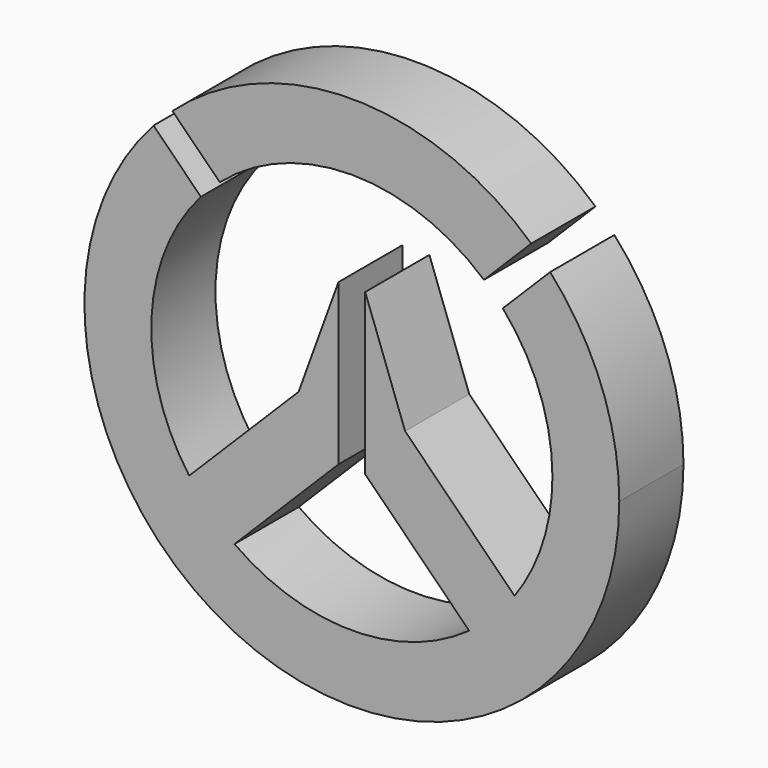
from build123d import *

# Parameters (mm, degrees)
F1_DEPTH = 3
F2_DEPTH = 3
F4_DEPTH = 3


with BuildPart() as f1:
    # F0 (on Front) → F1 (new body)
    with BuildSketch(Plane.XZ):
        with BuildLine():
            ThreePointArc((-7.4157768365, 6.7086700553), (-3.5945953621, -9.331606731), (10, 0))
            ThreePointArc((10, 0), (9.331606731, 3.5945953621), (7.4157768365, 6.7086700553))
            Line((7.4157768365, 6.7086700553), (5.6450560127, 4.9379492315))
            ThreePointArc((5.6450560127, 4.9379492315), (7.0209657489, 2.6374305588), (7.5, 0))
            ThreePointArc((7.5, 0), (-2.6374305588, -7.0209657489), (-5.6450560127, 4.9379492315))
            Line((-5.6450560127, 4.9379492315), (-7.4157768365, 6.7086700553))
        make_face()
    extrude(amount=F1_DEPTH)

    # F3 (on Front) → F4 (join, through all)
    with BuildSketch(Plane.XZ):
        with BuildLine():
            Line((-1.9912281105, -0.2941718356), (-6.0835066474, -4.3864503726))
            ThreePointArc((-6.0835066474, -4.3864503726), (-5.7118298294, -4.8605555238), (-5.3033008589, -5.3033008589))
            Line((-5.3033008589, -5.3033008589), (-0.5, -0.5))
            Line((-0.5, -0.5), (-0.5, 1.1970562748))
            Line((-0.5, 1.1970562748), (-1.9912281105, -0.2941718356))
        make_face()
        with BuildLine():
            Line((-0.5, -0.5), (-5.3033008589, -5.3033008589))
            ThreePointArc((-5.3033008589, -5.3033008589), (-4.8605555238, -5.7118298294), (-4.3864503726, -6.0835066474))
            Line((-4.3864503726, -6.0835066474), (-0.5, -2.1970562748))
            Line((-0.5, -2.1970562748), (-0.5, -0.5))
        make_face()
        Polygon((-0.5, 3.8029437252), (-1.9912281105, -0.2941718356), (-0.5, 1.1970562748), align=None)
        with BuildLine():
            Line((0.5, -0.5), (5.3033008589, -5.3033008589))
            ThreePointArc((5.3033008589, -5.3033008589), (5.7118298294, -4.8605555238), (6.0835066474, -4.3864503726))
            Line((6.0835066474, -4.3864503726), (1.9912281105, -0.2941718356))
            Line((1.9912281105, -0.2941718356), (0.5, 1.1970562748))
            Line((0.5, 1.1970562748), (0.5, -0.5))
        make_face()
        with BuildLine():
            Line((0.5, -2.1970562748), (4.3864503726, -6.0835066474))
            ThreePointArc((4.3864503726, -6.0835066474), (4.8605555238, -5.7118298294), (5.3033008589, -5.3033008589))
            Line((5.3033008589, -5.3033008589), (0.5, -0.5))
            Line((0.5, -0.5), (0.5, -2.1970562748))
        make_face()
        Polygon((0.5, 3.8029437252), (0.5, 1.1970562748), (1.9912281105, -0.2941718356), align=None)
    extrude(amount=F4_DEPTH)


with BuildPart() as f2:
    # F0 (on Front) → F2 (new body, through all)
    with BuildSketch(Plane.XZ):
        with BuildLine():
            Line((4.9379492315, 5.6450560127), (6.7086700553, 7.4157768365))
            ThreePointArc((6.7086700553, 7.4157768365), (0, 10), (-6.7086700553, 7.4157768365))
            Line((-6.7086700553, 7.4157768365), (-4.9379492315, 5.6450560127))
            ThreePointArc((-4.9379492315, 5.6450560127), (0, 7.5), (4.9379492315, 5.6450560127))
        make_face()
    extrude(amount=F2_DEPTH)


solid = Compound([f1.part, f2.part])
